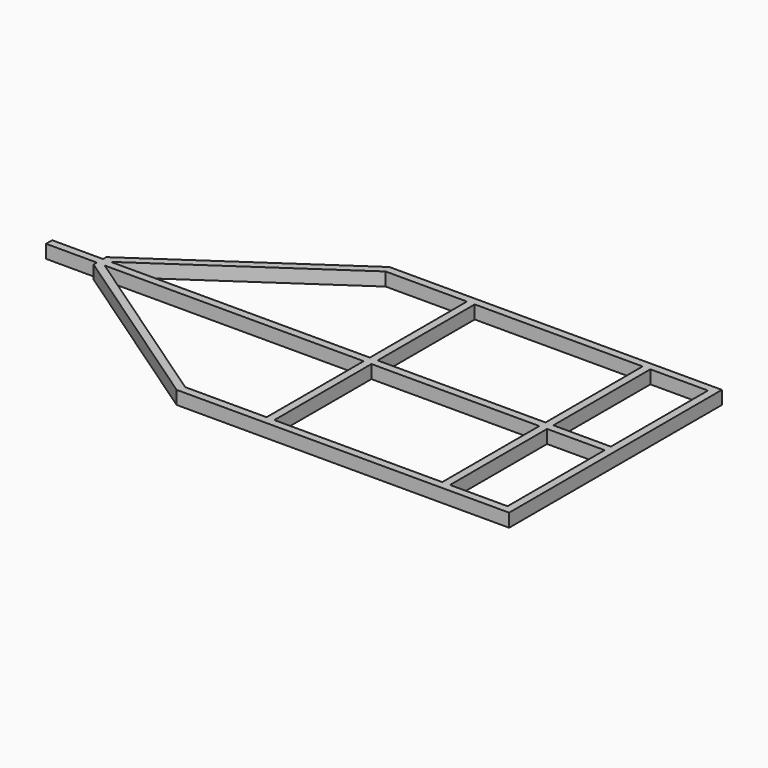
from build123d import *

# Parameters (mm, degrees)
F0_W     = 757.415768
F0_H     = 547.5
F0_W_2   = 259.728804
F1_DEPTH = 60


with BuildPart() as f1:
    # F0 (on Top) → F1 (new body)
    with BuildSketch(Plane.XY):
        Polygon((2.23314, -490.280703), (2.23314, 709.719297), (-1497.76686, 709.719297), (-2323.527336, 145.698344), (-2323.527336, 127.219297), (-2552.865505, 127.219297), (-2552.865505, 92.559308), (-2323.527336, 92.264317), (-2323.527336, 73.74025), (-1497.76686, -490.280703), align=None)
        Polygon((-1119.911432, -455.280703), (-1486.954525, -455.280703), (-2288.527336, 92.219297), (-1119.911432, 92.219297), align=None, mode=Mode.SUBTRACT)
        with Locations((-706.203548, -181.530703)):
            Rectangle(F0_W, F0_H, mode=Mode.SUBTRACT)
        with Locations((-162.631262, -181.530703)):
            Rectangle(F0_W_2, F0_H, mode=Mode.SUBTRACT)
        Polygon((-1119.911432, 127.219297), (-2288.527336, 127.219297), (-1486.954525, 674.719297), (-1119.911432, 674.719297), align=None, mode=Mode.SUBTRACT)
        with Locations((-706.203548, 400.969297)):
            Rectangle(F0_W, F0_H, mode=Mode.SUBTRACT)
        with Locations((-162.631262, 400.969297)):
            Rectangle(F0_W_2, F0_H, mode=Mode.SUBTRACT)
    extrude(amount=F1_DEPTH)


solid = f1.part
